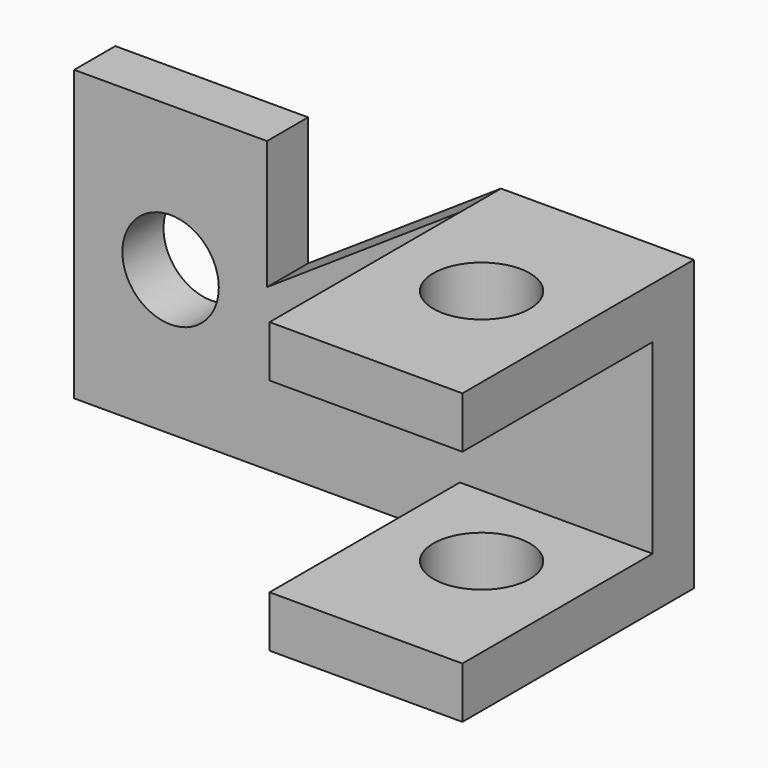
from build123d import *

# Parameters (mm, degrees)
F1_DEPTH = 8
F2_W     = 30
F2_H     = 8
F3_DEPTH = 37
F4_R     = 7.5
F5_DEPTH = 45.001
F6_R     = 7.5
F7_DEPTH = 8


with BuildPart() as f1:
    # F0 (on Front) → F1 (new body)
    with BuildSketch(Plane.XZ):
        Polygon((0, 45), (0, 0), (90, 0), (90, 45), (60, 45), (30, 25), (30, 45), align=None)
    extrude(amount=F1_DEPTH)

    # F2 (on face) → F3 (join)
    with BuildSketch(Plane.XZ.offset(8)):
        with Locations((75, 4)):
            Rectangle(F2_W, F2_H)
        with Locations((75, 41)):
            Rectangle(F2_W, F2_H)
    extrude(amount=F3_DEPTH)

    # F4 (on face) → F5 (cut, through all)
    with BuildSketch(Plane.XY.offset(45)):
        with Locations((75, -22.521)):
            Circle(F4_R)
    extrude(amount=-F5_DEPTH, mode=Mode.SUBTRACT)

    # F6 (on face) → F7 (cut, through all)
    with BuildSketch(Plane.XZ.offset(8)):
        with Locations((15, 22.5)):
            Circle(F6_R)
    extrude(amount=-F7_DEPTH, mode=Mode.SUBTRACT)


solid = f1.part
